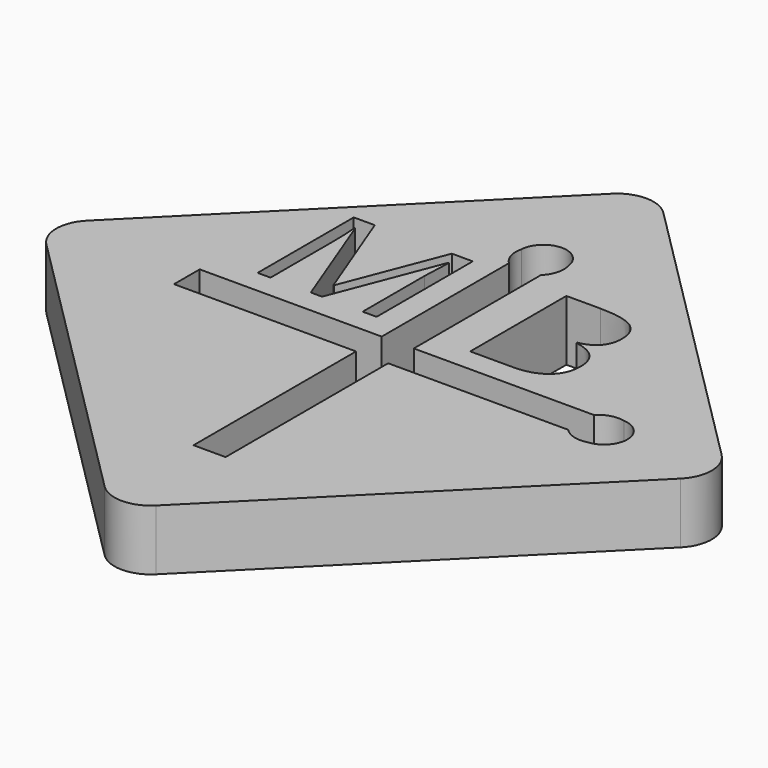
from build123d import *

# Parameters (mm, degrees)
F1_DEPTH = 2.5
F2_R     = 0.85
F3_DEPTH = 12.5


with BuildPart() as f1:
    # F0 (on Top) → F1 (new body)
    with BuildSketch(Plane.XY):
        with BuildLine():
            Line((13.081475452, -13.081475452), (1.0606601718, -1.0606601718))
            ThreePointArc((1.0606601718, -1.0606601718), (0, -0.6213203436), (-1.0606601718, -1.0606601718))
            Line((-1.0606601718, -1.0606601718), (-13.081475452, -13.081475452))
            ThreePointArc((-13.081475452, -13.081475452), (-13.5208152802, -14.1421356237), (-13.081475452, -15.2027957955))
            Line((-13.081475452, -15.2027957955), (-1.0606601718, -27.2236110757))
            ThreePointArc((-1.0606601718, -27.2236110757), (0, -27.6629509039), (1.0606601718, -27.2236110757))
            Line((1.0606601718, -27.2236110757), (13.081475452, -15.2027957955))
            ThreePointArc((13.081475452, -15.2027957955), (13.5208152802, -14.1421356237), (13.081475452, -13.081475452))
        make_face()
        with BuildLine():
            Line((-3.8649892248, -12.5063058175), (-4.329398947, -12.5063058175))
            Line((-4.329398947, -12.5063058175), (-6.0112565859, -8.1117745675))
            Line((-6.0112565859, -8.1117745675), (-6.038383322, -8.1117745675))
            add(Edge.make_bspline(
                [(-6.038383322, -8.1117745675), (-5.9906402665, -8.6336929703), (-5.9906402665, -9.353094012)],
                knots=[0, 0, 0, 1, 1, 1], degree=2))
            Line((-5.9906402665, -9.353094012), (-5.9906402665, -12.5063058175))
            Line((-5.9906402665, -12.5063058175), (-6.5234093637, -12.5063058175))
            Line((-6.5234093637, -12.5063058175), (-6.5234093637, -7.5486235258))
            Line((-6.5234093637, -7.5486235258), (-5.6553538082, -7.5486235258))
            Line((-5.6553538082, -7.5486235258), (-4.085258322, -11.638250262))
            Line((-4.085258322, -11.638250262), (-4.0581315859, -11.638250262))
            Line((-4.0581315859, -11.638250262), (-2.4750152665, -7.5486235258))
            Line((-2.4750152665, -7.5486235258), (-1.6134701276, -7.5486235258))
            Line((-1.6134701276, -7.5486235258), (-1.6134701276, -12.5063058175))
            Line((-1.6134701276, -12.5063058175), (-2.1896420026, -12.5063058175))
            Line((-2.1896420026, -12.5063058175), (-2.1896420026, -9.3118613731))
            add(Edge.make_bspline(
                [(-2.1896420026, -9.3118613731), (-2.1896420026, -8.7628162342), (-2.141898947, -8.1182849842)],
                knots=[0, 0, 0, 1, 1, 1], degree=2))
            Line((-2.141898947, -8.1182849842), (-2.1690256832, -8.1182849842))
            Line((-2.1690256832, -8.1182849842), (-3.8649892248, -12.5063058175))
        make_face(mode=Mode.SUBTRACT)
        with BuildLine():
            Line((-8.1334756687, -14.8039748892), (-8.1334756687, -13.4802963582))
            Line((-8.1334756687, -13.4802963582), (-0.6236797201, -13.4802963582))
            Line((-0.6236797201, -13.4802963582), (-0.6236797201, -6.9198086858))
            ThreePointArc((-0.6236797201, -6.9198086858), (-0.9032194318, -6.4583786209), (-0.9135835525, -5.9189782686))
            ThreePointArc((-0.9135835525, -5.9189782686), (0.0168397474, -5.0141534426), (0.9868078824, -5.876451129))
            ThreePointArc((0.9868078824, -5.876451129), (0.9900106564, -6.4384308628), (0.6999988109, -6.9198086858))
            Line((0.6999988109, -6.9198086858), (0.6999988109, -13.4802963582))
            Line((0.6999988109, -13.4802963582), (8.1334756687, -13.4802963582))
            ThreePointArc((8.1334756687, -13.4802963582), (8.5949057336, -13.2007566465), (9.134306086, -13.1903925258))
            ThreePointArc((9.134306086, -13.1903925258), (10.0391309119, -14.1208158258), (9.1768332255, -15.0907839607))
            ThreePointArc((9.1768332255, -15.0907839607), (8.6148534917, -15.0939867347), (8.1334756687, -14.8039748892))
            Line((8.1334756687, -14.8039748892), (0.6999988109, -14.8039748892))
            Line((0.6999988109, -14.8039748892), (0.6999988109, -23.1867600232))
            Line((0.6999988109, -23.1867600232), (-0.6236797201, -23.1867600232))
            Line((-0.6236797201, -23.1867600232), (-0.6236797201, -14.8039748892))
            Line((-0.6236797201, -14.8039748892), (-8.1334756687, -14.8039748892))
        make_face(mode=Mode.SUBTRACT)
        with BuildLine():
            Line((2.2484090003, -12.5063053519), (2.2484090003, -7.5486230602))
            Line((2.2484090003, -7.5486230602), (3.6492336531, -7.5486230602))
            add(Edge.make_bspline(
                [(3.6492336531, -7.5486230602), (4.6355617781, -7.5486230602), (5.0766425073, -7.8437619491)],
                knots=[0, 0, 0, 1, 1, 1], degree=2))
            add(Edge.make_bspline(
                [(5.0766425073, -7.8437619491), (5.5177232364, -8.138900838), (5.5177232364, -8.7758366019)],
                knots=[0, 0, 0, 1, 1, 1], degree=2))
            add(Edge.make_bspline(
                [(5.5177232364, -8.7758366019), (5.5177232364, -9.2174598657), (5.2719550073, -9.5039181991)],
                knots=[0, 0, 0, 1, 1, 1], degree=2))
            add(Edge.make_bspline(
                [(5.2719550073, -9.5039181991), (5.0261867781, -9.7903765324), (4.5541815698, -9.8750119491)],
                knots=[0, 0, 0, 1, 1, 1], degree=2))
            Line((4.5541815698, -9.8750119491), (4.5541815698, -9.9086491019))
            add(Edge.make_bspline(
                [(4.5541815698, -9.9086491019), (5.6837388614, -10.101791463), (5.6837388614, -11.0957150741)],
                knots=[0, 0, 0, 1, 1, 1], degree=2))
            add(Edge.make_bspline(
                [(5.6837388614, -11.0957150741), (5.6837388614, -11.7597775741), (5.2345201114, -12.133041463)],
                knots=[0, 0, 0, 1, 1, 1], degree=2))
            add(Edge.make_bspline(
                [(5.2345201114, -12.133041463), (4.7853013614, -12.5063053519), (3.9780096948, -12.5063053519)],
                knots=[0, 0, 0, 1, 1, 1], degree=2))
            Line((3.9780096948, -12.5063053519), (2.2484090003, -12.5063053519))
        make_face(mode=Mode.SUBTRACT)
    extrude(amount=F1_DEPTH)

    # F2 (on Right) → F3 (cut, symmetric)
    with BuildSketch(Plane.YZ):
        with Locations((-2.4908210296, 1.292226194)):
            Circle(F2_R)
    extrude(amount=F3_DEPTH, both=True, mode=Mode.SUBTRACT)


solid = f1.part
